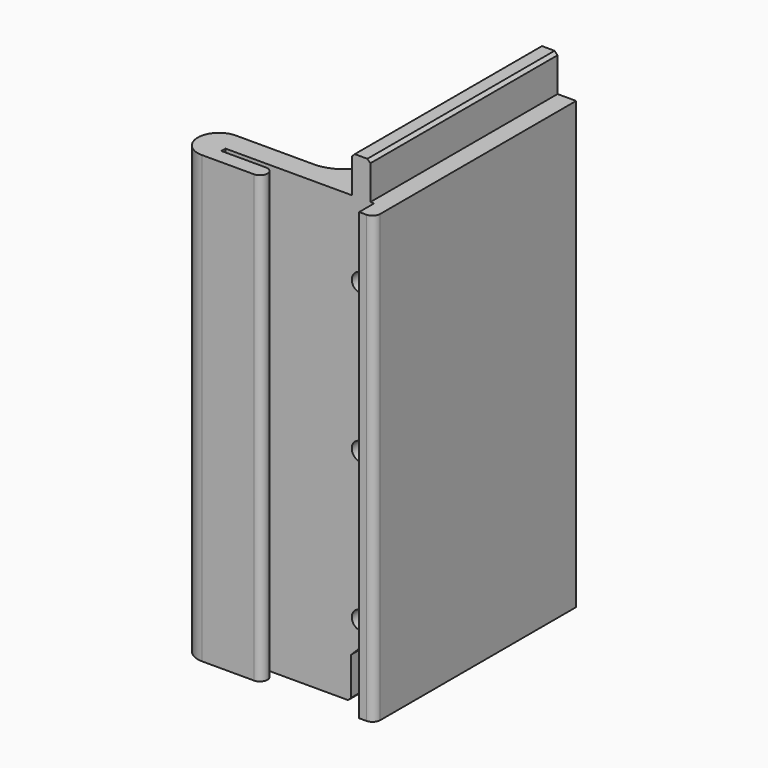
from build123d import *

# Parameters (mm, degrees)
F1_DEPTH  = 76.2
F3_DEPTH  = 43.435
F4_W      = 3.175
F4_H      = 6.35
F5_DEPTH  = 40.005
F6_SIZE   = 0.508
F7_R      = 1.5875
F8_DEPTH  = 1.651
F9_R      = 1.5875
F10_DEPTH = 1.651


with BuildPart() as f1:
    # F0 (on Top) → F1 (new body)
    with BuildSketch(Plane.XY):
        with BuildLine():
            Line((2.54, 40.005), (-6.985, 40.005))
            Line((-6.985, 40.005), (-6.985, 10.16))
            ThreePointArc((-6.985, 10.16), (-8.8448719395, 5.6698719395), (-13.335, 3.81))
            Line((-13.335, 3.81), (-26.67, 3.81))
            ThreePointArc((-26.67, 3.81), (-30.2895, 0.1905), (-26.67, -3.429))
            Line((-26.67, -3.429), (-17.78, -3.429))
            ThreePointArc((-17.78, -3.429), (-16.51, -2.159), (-17.78, -0.889))
            Line((-17.78, -0.889), (-25.4, -0.889))
            Line((-25.4, -0.889), (-25.4, 0))
            Line((-25.4, 0), (0, 0))
            Line((0, 0), (0, -3.175))
            Line((0, -3.175), (1.2192, -3.175))
            ThreePointArc((1.2192, -3.175), (2.1531466366, -2.7881466366), (2.54, -1.8542))
            Line((2.54, -1.8542), (2.54, 40.005))
        make_face()
    extrude(amount=F1_DEPTH)

    # F2 (on face) → F3 (cut, through all)
    with BuildSketch(Plane(origin=(0, 40.005, 0), x_dir=(-1, 0, 0), z_dir=(0, 1, 0))):
        Polygon((0.508, 6.985), (0.508, 0), (3.937, 0), (3.937, 6.985), (2.2225, 8.6995), align=None)
    extrude(amount=-F3_DEPTH, mode=Mode.SUBTRACT)

    # F4 (on face) → F5 (join, through all)
    with BuildSketch(Plane(origin=(0, 40.005, 0), x_dir=(-1, 0, 0), z_dir=(0, 1, 0))):
        with Locations((2.2225, 79.375)):
            Rectangle(F4_W, F4_H)
    extrude(amount=-F5_DEPTH)

    # F6
    f6_edges = [f1.edges().sort_by_distance(p)[0] for p in [
        (-3.937, 20.0025, 0),
        (-0.508, 20.0025, 0),
        (-0.635, 20.0025, 82.55),
        (-3.81, 20.0025, 82.55),
    ]]
    chamfer(f6_edges, length=F6_SIZE)

    # F7 (on face) → F8 (cut)
    with BuildSketch(Plane(origin=(0, 40.005, 0), x_dir=(-1, 0, 0), z_dir=(0, 1, 0))):
        with Locations((2.2225, 12.7)):
            Circle(F7_R)
        with Locations((2.2225, 38.1)):
            Circle(F7_R)
        with Locations((2.2225, 63.5)):
            Circle(F7_R)
    extrude(amount=-F8_DEPTH, mode=Mode.SUBTRACT)

    # F9 (on face) → F10 (cut)
    with BuildSketch(Plane.XZ):
        with Locations((-2.2225, 12.7)):
            Circle(F9_R)
        with Locations((-2.2225, 38.1)):
            Circle(F9_R)
        with Locations((-2.2225, 63.5)):
            Circle(F9_R)
    extrude(amount=-F10_DEPTH, mode=Mode.SUBTRACT)


solid = f1.part
